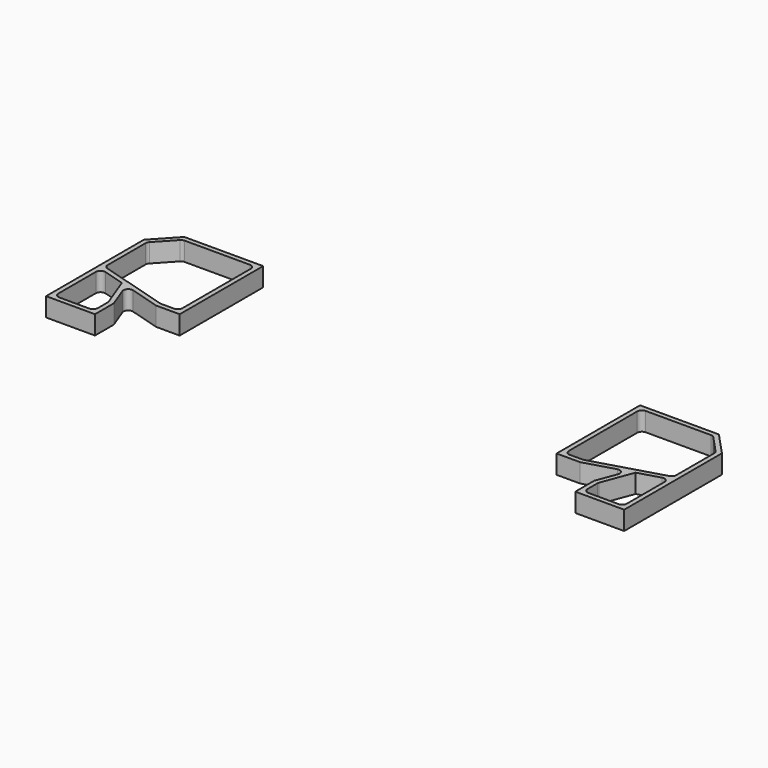
from build123d import *

# Parameters (mm, degrees)
F1_DEPTH = 20
F2_R     = 5


with BuildPart() as f1:
    # F0 (on Top) → F1 (new body)
    with BuildSketch(Plane.XY):
        Polygon((-267.234735, 128.299134), (-225.5, 116), (-200.5, 116), (-200.5, 227), (-284.354419, 227), (-307.5, 202.103093), (-307.5, 72.103093), (-255.5, 72.103093), (-255.5, 97.103093), align=None)
        Polygon((-273.242781, 130.069692), (-260.5, 96.193827), (-260.5, 77.103093), (-302.5, 77.103093), (-302.5, 138.691729), align=None, mode=Mode.SUBTRACT)
        Polygon((-205.5, 222.000003), (-205.5, 120.999999), (-224.778584, 120.999999), (-302.5, 143.904328), (-302.5, 200.137961), (-282.175801, 222.000003), align=None, mode=Mode.SUBTRACT)
    extrude(amount=F1_DEPTH)

    # F2
    f2_edges = [f1.edges().sort_by_distance(p)[0] for p in [
        (-267.234735, 128.299134, 10),
        (-205.5, 120.999999, 10),
        (-260.5, 96.193827, 10),
        (-260.5, 77.103093, 10),
        (-224.778584, 120.999999, 10),
        (-282.175801, 222.000003, 10),
        (-302.5, 200.137961, 10),
        (-302.5, 138.691729, 10),
        (-302.5, 77.103093, 10),
        (-302.5, 143.904328, 10),
        (-205.5, 222.000003, 10),
    ]]
    fillet(f2_edges, radius=F2_R)


with BuildPart() as f3_1:
    # F3: instance of F1
    add(f1.part.mirror(Plane.YZ))


solid = Compound([f1.part, f3_1.part])
